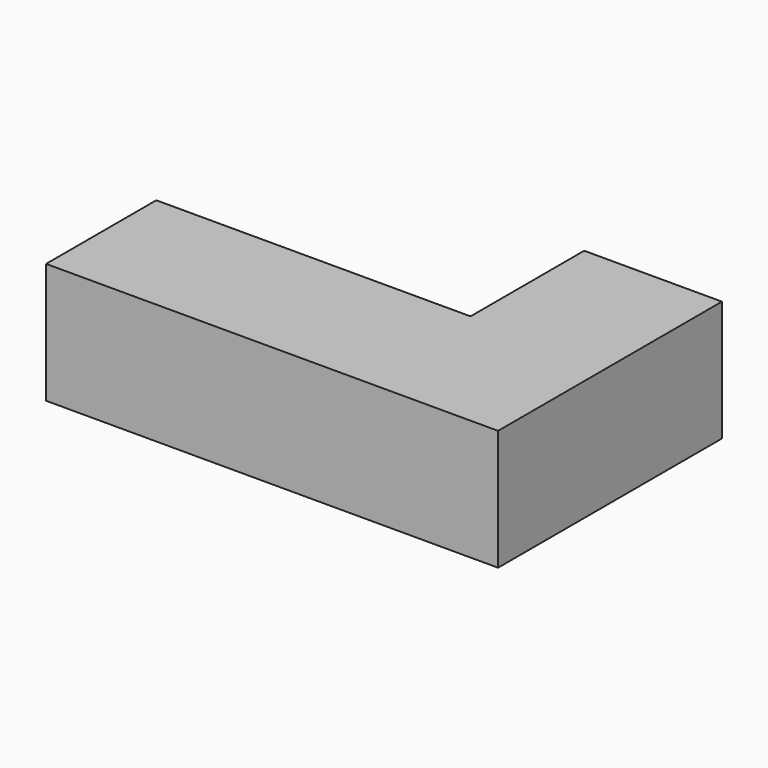
from build123d import *

# Parameters (mm, degrees)
F1_DEPTH = 426.72
F2_W     = 365.76
F2_H     = 48.768
F2_H_2   = 73.152
F2_H_3   = 85.344
F2_H_4   = 91.44
F2_W_2   = 298.704
F2_H_5   = 377.952
F3_DEPTH = 9.144
F4_W     = 119.230599
F4_H     = 11.923056
F4_H_2   = 9.935886
F4_W_2   = 123.204947
F4_H_3   = 11.92306
F4_W_3   = 127.179295
F4_H_4   = 11.923045
F4_W_4   = 15.897393
F4_H_5   = 109.294712
F4_W_5   = 17.884612
F5_DEPTH = 12.192
F6_W     = 439.548612
F6_H     = 382.832659
F7_DEPTH = 359.664
F8_W     = 439.548612
F8_H     = 23.631648
F9_DEPTH = 353.568


with BuildPart() as f1:
    # F0 (on Top) → F1 (new body)
    with BuildSketch(Plane.XY):
        Polygon((0, 487.68), (0, 0), (1600.2, 0), (1600.2, 990.6), (1112.52, 990.6), (1112.52, 487.68), align=None)
    extrude(amount=F1_DEPTH)

    # F2 (on face) → F3 (join)
    with BuildSketch(Plane(origin=(0, 487.68, 0), x_dir=(-1, 0, 0), z_dir=(0, 1, 0))):
        with Locations((-210.133546, 51.409847)):
            Rectangle(F2_W, F2_H)
        with Locations((-210.133546, 141.325856)):
            Rectangle(F2_W, F2_H_2)
        with Locations((-210.133546, 245.719852)):
            Rectangle(F2_W, F2_H_3)
        with Locations((-210.133546, 367.639854)):
            Rectangle(F2_W, F2_H_4)
        with Locations((-582.587673, 216.001847)):
            Rectangle(F2_W_2, F2_H_5)
        with Locations((-928.356364, 216.001847)):
            Rectangle(F2_W_2, F2_H_5)
    extrude(amount=F3_DEPTH)

    # F4 (on face) → F5 (join)
    with BuildSketch(Plane(origin=(0, 487.68, 0), x_dir=(-1, 0, 0), z_dir=(0, 1, 0))):
        with Locations((-202.043369, 52.071078)):
            Rectangle(F4_W, F4_H)
        with Locations((-202.043369, 132.55173)):
            Rectangle(F4_W, F4_H_2)
        with Locations((-204.030543, 240.852855)):
            Rectangle(F4_W_2, F4_H_3)
        with Locations((-206.017718, 360.083445)):
            Rectangle(F4_W_3, F4_H_4)
        with Locations((-702.811837, 192.167029)):
            Rectangle(F4_W_4, F4_H_5)
        with Locations((-807.138622, 192.167029)):
            Rectangle(F4_W_5, F4_H_5)
    extrude(amount=F5_DEPTH)

    # F6 (on face) → F7 (cut)
    with BuildSketch(Plane(origin=(0, 990.6, 0), x_dir=(-1, 0, 0), z_dir=(0, 1, 0))):
        with Locations((-1355.178416, 212.191843)):
            Rectangle(F6_W, F6_H)
    extrude(amount=-F7_DEPTH, mode=Mode.SUBTRACT)

    # F8 (on face) → F9 (join)
    with BuildSketch(Plane(origin=(0, 630.936, 0), x_dir=(-1, 0, 0), z_dir=(0, 1, 0))):
        with Locations((-1355.178416, 167.291738)):
            Rectangle(F8_W, F8_H)
    extrude(amount=F9_DEPTH)


solid = f1.part
